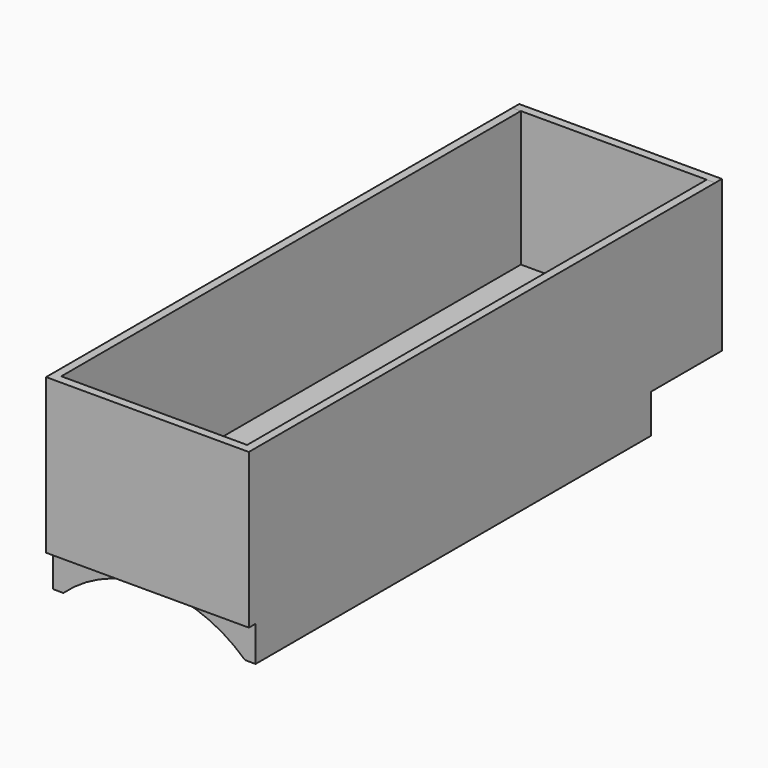
from build123d import *

# Parameters (mm, degrees)
F1_DEPTH = 117
F3_DEPTH = 19
F4_W     = 48
F4_H     = 35.818315
F5_DEPTH = 2
F6_W     = 44
F6_H     = 32
F7_DEPTH = 2
F9_DEPTH = 5


with BuildPart() as f1:
    # F0 (on Front) → F1 (new body)
    with BuildSketch(Plane.XZ):
        with BuildLine():
            ThreePointArc((-24, 26.832816), (0, 36), (24, 26.832816))
            Line((24, 26.832816), (24, 68.36263))
            Line((24, 68.36263), (22, 68.36263))
            Line((22, 68.36263), (22, 36.36263))
            Line((22, 36.36263), (-22, 36.36263))
            Line((-22, 36.36263), (-22, 68.36263))
            Line((-22, 68.36263), (-24, 68.36263))
            Line((-24, 68.36263), (-24, 26.832816))
        make_face()
        with BuildLine():
            ThreePointArc((-24, 24.083189), (0, 34), (24, 24.083189))
            Line((24, 24.083189), (24, 26.832816))
            ThreePointArc((24, 26.832816), (0, 36), (-24, 26.832816))
            Line((-24, 26.832816), (-24, 24.083189))
        make_face()
        with BuildLine():
            ThreePointArc((-21.5, 23.36263), (0, 31.75), (21.5, 23.36263))
            Line((21.5, 23.36263), (24, 23.36263))
            Line((24, 23.36263), (24, 24.083189))
            ThreePointArc((24, 24.083189), (0, 34), (-24, 24.083189))
            Line((-24, 24.083189), (-24, 23.36263))
            Line((-24, 23.36263), (-21.5, 23.36263))
        make_face()
    extrude(amount=F1_DEPTH)

    # F2 (on face) → F3 (join)
    with BuildSketch(Plane(origin=(0, 0, 0), x_dir=(-1, 0, 0), z_dir=(0, 1, 0))):
        Polygon((-24, 32.544315), (0, 32.544315), (24, 32.544315), (24, 68.36263), (22, 68.36263), (22, 36.36263), (-22, 36.36263), (-22, 68.36263), (-24, 68.36263), align=None)
    extrude(amount=F3_DEPTH)

    # F4 (on face) → F5 (join)
    with BuildSketch(Plane(origin=(0, 19, 0), x_dir=(-1, 0, 0), z_dir=(0, 1, 0))):
        with Locations((0, 50.453472)):
            Rectangle(F4_W, F4_H)
    extrude(amount=F5_DEPTH)

    # F6 (on face) → F7 (join)
    with BuildSketch(Plane.XZ.offset(117)):
        with Locations((0, 52.36263)):
            Rectangle(F6_W, F6_H)
        Polygon((-22, 68.36263), (-24, 68.36263), (-24, 31.75), (0, 31.75), (24, 31.75), (24, 68.36263), (22, 68.36263), (22, 36.36263), (-22, 36.36263), align=None)
    extrude(amount=F7_DEPTH)

    # F8 (on face) → F9 (cut)
    with BuildSketch(Plane(origin=(0, 21, 0), x_dir=(-1, 0, 0), z_dir=(0, 1, 0))):
        with BuildLine():
            Line((-13.959705, 57.544315), (-16.459705, 57.544315))
            ThreePointArc((-16.459705, 57.544315), (-18.581025, 56.665635), (-19.459705, 54.544315))
            Line((-19.459705, 54.544315), (-19.459705, 38.544315))
            ThreePointArc((-19.459705, 38.544315), (-18.581025, 36.422995), (-16.459705, 35.544315))
            Line((-16.459705, 35.544315), (-15.209705, 35.544315))
            Line((-15.209705, 35.544315), (-13.959705, 35.544315))
            ThreePointArc((-13.959705, 35.544315), (-11.838384, 36.422995), (-10.959705, 38.544315))
            Line((-10.959705, 38.544315), (-10.959705, 54.544315))
            ThreePointArc((-10.959705, 54.544315), (-11.838384, 56.665635), (-13.959705, 57.544315))
        make_face()
    extrude(amount=-F9_DEPTH, mode=Mode.SUBTRACT)


solid = f1.part
